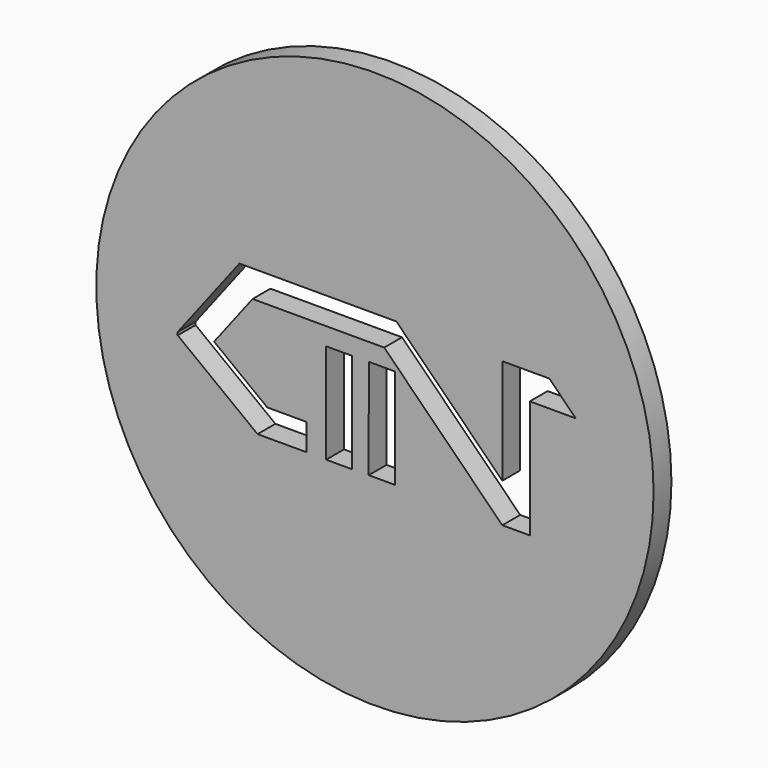
from build123d import *

# Parameters (mm, degrees)
F0_R     = 37.469573
F1_DEPTH = 3


with BuildPart() as f1:
    # F0 (on Front) → F1 (new body)
    with BuildSketch(Plane.XZ):
        Circle(F0_R)
        Polygon((-3.05449, -10.486421), (-6.555826, -10.486421), (-6.550748, 2.939441), (-3.05449, 2.939441), align=None, mode=Mode.SUBTRACT)
        Polygon((2.666377, -10.460499), (-0.834959, -10.460499), (-0.829881, 2.965363), (2.666377, 2.965363), align=None, mode=Mode.SUBTRACT)
        Polygon((-14.480905, -6.875154), (-9.223534, -6.875154), (-9.223534, -10.460499), (-15.782585, -10.460499), (-26.516696, -2.260421), (-26.516696, -1.857184), (-18.215382, 8.946129), (2.88787, 8.946129), (17.129626, -5.276968), (17.129626, 8.878034), (23.450369, 8.878034), (26.995355, 5.323137), (20.824367, 5.323137), (20.824367, -10.542784), (17.129626, -10.542784), (1.242891, 5.323137), (-16.452013, 5.323137), (-21.629168, -1.414402), align=None, mode=Mode.SUBTRACT)
    extrude(amount=F1_DEPTH)


solid = f1.part
